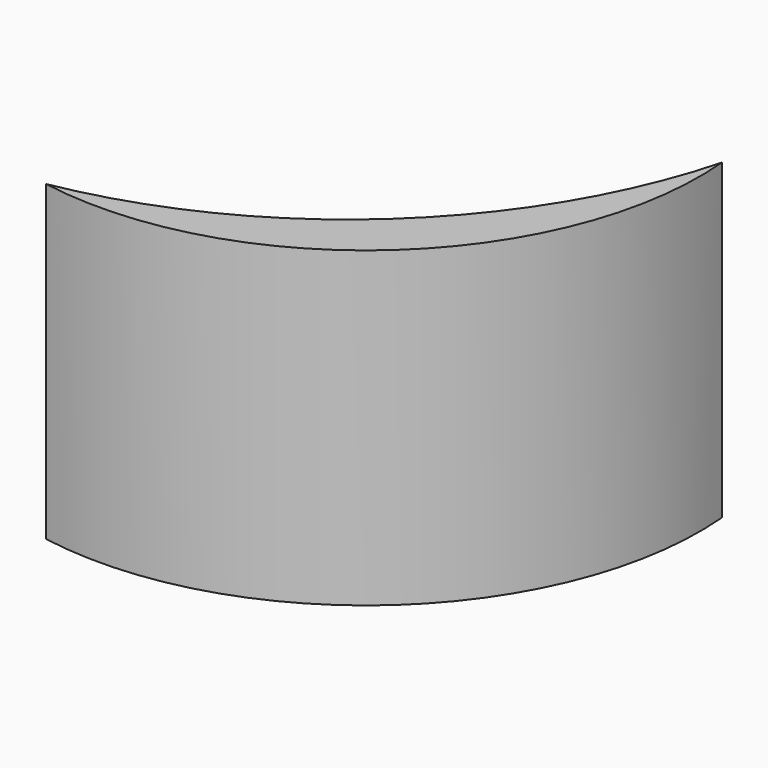
from build123d import *

# Parameters (mm, degrees)
F1_DEPTH = 12.7


with BuildPart() as f1:
    # F0 (on Top) → F1 (new body)
    with BuildSketch(Plane.XY):
        with BuildLine():
            ThreePointArc((0, 16.912641), (-5.786296, 7.328036), (-15.821509, 2.36413))
            ThreePointArc((-15.821509, 2.36413), (-4.335892, 5.750722), (0, 16.912641))
        make_face()
    extrude(amount=F1_DEPTH)


solid = f1.part
